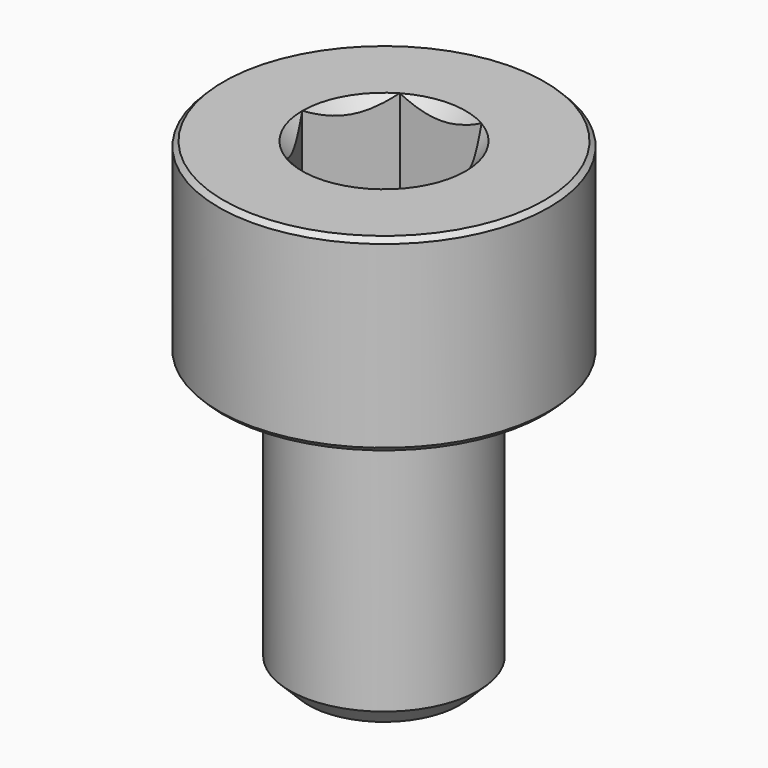
from build123d import *

# Parameters (mm, degrees)
SKETCH001_R     = 3.75
POCKET_DEPTH    = 9.70192
CHAMFER_SIZE    = 0.4
CHAMFER001_SIZE = 0.1
CHAMFER002_SIZE = 0.4


with BuildPart() as pocket:
    # Sketch003 → Revolution001 (revolve)
    with BuildSketch(Plane.XZ):
        Polygon((0, 0.29908), (2.75, 1.3), (2.75, 10), (0, 10), align=None)
    revolve(axis=Axis((0, 0, 0), (0, 0, 1)))

    # Sketch001 → Pocket (cut, through all)
    with BuildSketch(Plane(origin=(0, 0, 10), x_dir=(-1, 0, 0), z_dir=(0, 0, 1))):
        Circle(SKETCH001_R)
        Polygon((-0.866025, 1.5), (0.866025, 1.5), (1.732051, 0), (0.866025, -1.5), (-0.866025, -1.5), (-1.732051, 0), align=None, mode=Mode.SUBTRACT)
    extrude(amount=-POCKET_DEPTH, mode=Mode.SUBTRACT)


with BuildPart() as chamfer002:
    # Sketch → Revolution (revolve)
    with BuildSketch(Plane.XZ):
        Polygon((1.73, 4), (3.5, 4), (3.5, 0), (2, 0), (2, -6), (0, -6), (0, 2.269998), align=None)
    revolve(axis=Axis((0, 0, 0), (0, 0, 1)))

    # Cut: cut Pocket
    add(pocket.part, mode=Mode.SUBTRACT)

    # Chamfer
    chamfer_edges = [chamfer002.edges().sort_by_distance(p)[0] for p in [
        (1.299038, 0.75, 0.845037),
    ]]
    chamfer(chamfer_edges, length=CHAMFER_SIZE)

    # Chamfer001
    chamfer001_edges = [chamfer002.edges().sort_by_distance(p)[0] for p in [
        (-3.5, 0, 4),
        (-3.5, 0, 0),
    ]]
    chamfer(chamfer001_edges, length=CHAMFER001_SIZE)

    # Chamfer002
    chamfer002_edges = [chamfer002.edges().sort_by_distance(p)[0] for p in [
        (-2, 0, -6),
    ]]
    chamfer(chamfer002_edges, length=CHAMFER002_SIZE)


solid = chamfer002.part
